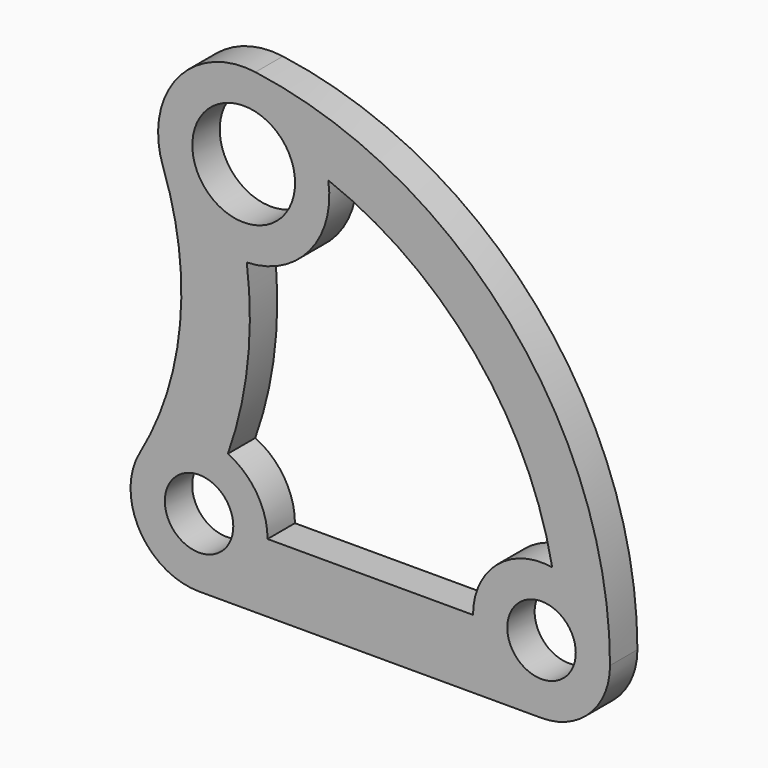
from build123d import *

# Parameters (mm, degrees)
F0_R     = 254
F0_R_2   = 381
F1_DEPTH = 254


with BuildPart() as f1:
    # F0 (on Front) → F1 (new body)
    with BuildSketch(Plane.XZ):
        with BuildLine():
            Line((0, -508), (2540, -508))
            ThreePointArc((2540, -508), (2899.210245, -359.210245), (3048, 0))
            ThreePointArc((3048, 0), (2298.436429, 2001.872619), (418.410773, 3019.144982))
            ThreePointArc((418.410773, 3019.144982), (-161.895545, 2790.207064), (-266.25594, 2175.164869))
            ThreePointArc((-266.25594, 2175.164869), (-140.49364, 1195.804175), (-439.499641, 254.762764))
            ThreePointArc((-439.499641, 254.762764), (-440.161041, -253.618331), (0, -508))
        make_face()
        Circle(F0_R, mode=Mode.SUBTRACT)
        with Locations((2540, 0)):
            Circle(F0_R, mode=Mode.SUBTRACT)
        with BuildLine():
            Line((2032, 0), (508, 0))
            ThreePointArc((508, 0), (428.165091, 273.383713), (213.753328, 460.84001))
            ThreePointArc((213.753328, 460.84001), (360.460141, 1099.90905), (354.187288, 1755.571141))
            ThreePointArc((354.187288, 1755.571141), (821.248596, 1986.277254), (958.533973, 2488.795215))
            ThreePointArc((958.533973, 2488.795215), (2046.322283, 1710.395894), (2619.375, 501.76051))
            ThreePointArc((2619.375, 501.76051), (2210.044321, 386.255421), (2032, 0))
        make_face(mode=Mode.SUBTRACT)
        with Locations((331.241862, 2390.156444)):
            Circle(F0_R_2, mode=Mode.SUBTRACT)
    extrude(amount=F1_DEPTH)


solid = f1.part
